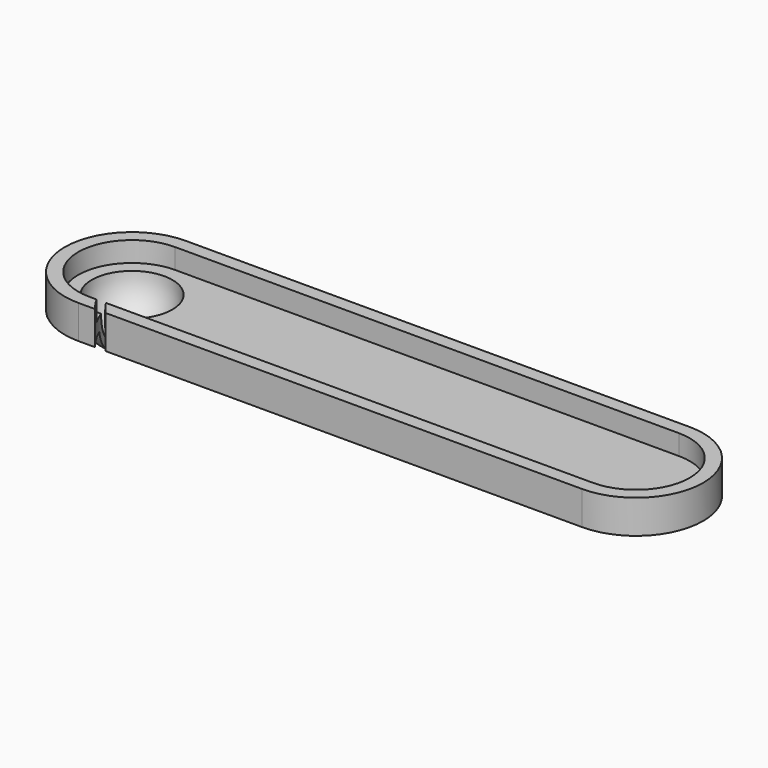
from build123d import *

# Parameters (mm, degrees)
PAD_DEPTH            = 5
THICKNESS_T          = -2
SKETCH001_R          = 1.510478
POCKET_DEPTH         = 7.001
POCKET001_DEPTH      = 6.83609
POCKET001_DEPTH_BACK = -3.001


with BuildPart() as part:
    # Sketch → Pad (new body)
    with BuildSketch(Plane.XY):
        with BuildLine():
            ThreePointArc((-37.5, 10), (-47.5, 0), (-37.5, -10))
            Line((-37.5, -10), (37.5, -10))
            ThreePointArc((37.5, -10), (47.5, 0), (37.5, 10))
            Line((37.5, 10), (-37.5, 10))
        make_face()
    extrude(amount=PAD_DEPTH)

    # Thickness
    thickness_openings = [part.faces().sort_by_distance(p)[0] for p in [
        (0, 0, 5),
    ]]
    offset(amount=THICKNESS_T, openings=thickness_openings)

    # Sphere → Sphere (revolve)
    with BuildSketch(Plane(origin=(-37.5, 0, 2), x_dir=(-1, 0, 0), z_dir=(0, 1, 0))):
        with BuildLine():
            ThreePointArc((0, -7), (4.949747, -4.949747), (7, 0))
            Line((7, 0), (0, 0))
            Line((0, 0), (0, -7))
        make_face()
    revolve(axis=Axis((-37.5, 0, 2), (0, 0, 1)))

    # Sphere001 → Sphere001 (revolve, cut)
    with BuildSketch(Plane(origin=(-37.5, 0, 2), x_dir=(-1, 0, 0), z_dir=(0, 1, 0))):
        with BuildLine():
            ThreePointArc((0, -6), (6, 0), (0, 6))
            Line((0, 6), (0, -6))
        make_face()
    revolve(axis=Axis((-37.5, 0, 2), (0, 0, 1)), mode=Mode.SUBTRACT)

    # Sketch001 (on Face12 of Sphere001) → Pocket (cut, through all)
    with BuildSketch(Plane(origin=(-37.5, 0, 2), x_dir=(-1, 0, 0), z_dir=(0, 0, 1))):
        Circle(SKETCH001_R)
    extrude(amount=-POCKET_DEPTH, mode=Mode.SUBTRACT)

    # Sketch002 (on Face13 of Pocket) → Pocket001 (cut, two sides)
    with BuildSketch(Plane(origin=(-37.5, 0, 2), x_dir=(-1, 0, 0), z_dir=(0, 0, 1))) as pocket001_sk:
        with BuildLine():
            ThreePointArc((-0.5, 0), (-2.127424, 7.352514), (-7.519787, 12.608978))
            Line((-7.519787, 12.608978), (-6.90661, 13.398923))
            ThreePointArc((0.5, 0), (-1.054385, 7.887334), (-6.90661, 13.398923))
            Line((-0.5, 0), (0.5, 0))
        make_face()
    extrude(amount=-POCKET001_DEPTH, mode=Mode.SUBTRACT)
    extrude(pocket001_sk.sketch, amount=-POCKET001_DEPTH_BACK, mode=Mode.SUBTRACT)


solid = part.part
